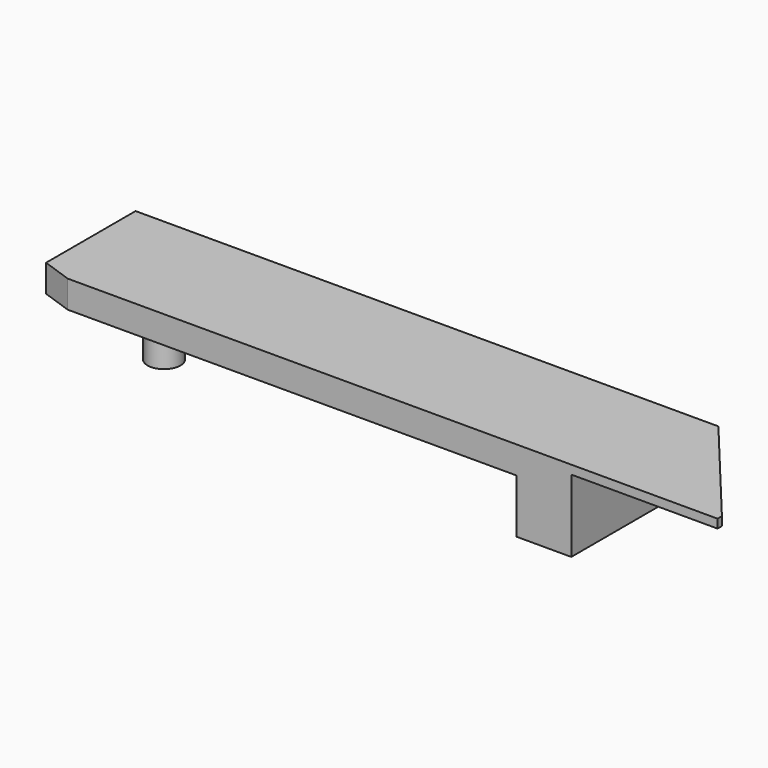
from build123d import *

# Parameters (mm, degrees)
PAD067_DEPTH    = 14.85
SKETCH113_W     = 92.842344
SKETCH113_H     = 21.437685
SKETCH113_W_2   = 28.846216
SKETCH113_H_2   = 21.567847
POCKET027_DEPTH = 22.351
SKETCH114_R     = 3
PAD068_DEPTH    = 9.85


with BuildPart() as part:
    # Sketch112 (on DatumPlane) → Pad067 (new body)
    with BuildSketch(Plane.XY.offset(1.6)):
        Polygon((47, 111), (153.5, 111), (171.2268158449, 89.65), (171.2268158449, 88.65), (52.4768158449, 88.65), (47, 90.5590542687), align=None)
    extrude(amount=PAD067_DEPTH)

    # Sketch113 (on Face4 of Pad067) → Pocket027 (cut, through all)
    with BuildSketch(Plane(origin=(0, 88.65, 1.6), x_dir=(1, 0, 0), z_dir=(0, -1, 0))):
        with Locations((88.078828, -0.8688425)):
            Rectangle(SKETCH113_W, SKETCH113_H)
        with Locations((158.923108, 2.4660765)):
            Rectangle(SKETCH113_W_2, SKETCH113_H_2)
    extrude(amount=-POCKET027_DEPTH, mode=Mode.SUBTRACT)

    # Sketch114 (on Face2 of Pocket027) → Pad068 (join)
    with BuildSketch(Plane(origin=(0, 0, 11.45), x_dir=(1, 0, 0), z_dir=(0, 0, -1))):
        with Locations((61, -100)):
            Circle(SKETCH114_R)
    extrude(amount=PAD068_DEPTH)


solid = part.part
